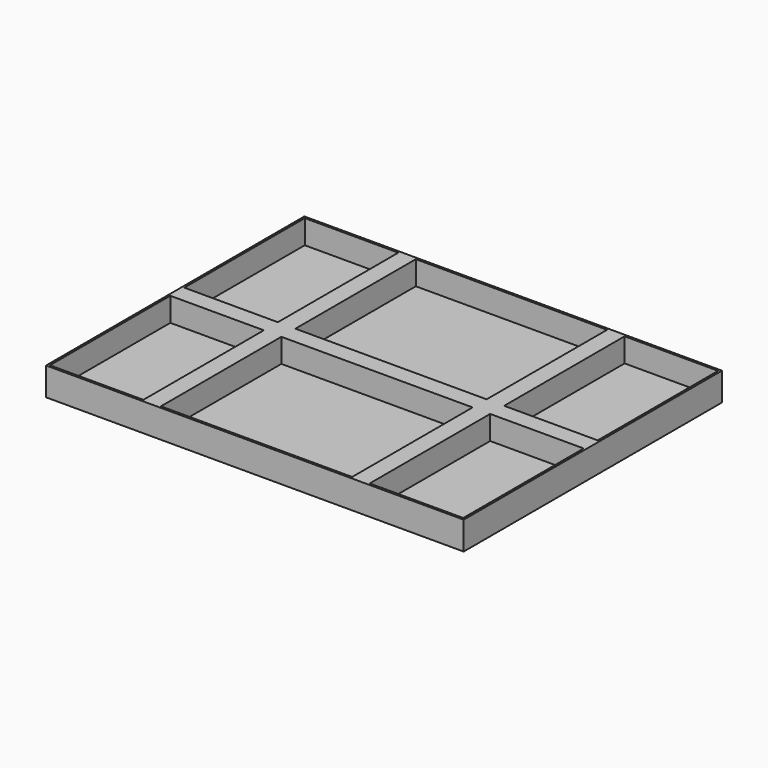
from build123d import *

# Parameters (mm, degrees)
F0_W     = 1190
F0_H     = 920
F1_DEPTH = 80
F2_W     = 1178
F2_H     = 908
F3_DEPTH = 68
F4_W     = 50
F4_H     = 80
F5_DEPTH = 908
F6_W     = 50
F6_H     = 80
F7_DEPTH = 1178


with BuildPart() as f1:
    # F0 (on Top) → F1 (new body)
    with BuildSketch(Plane.XY):
        Rectangle(F0_W, F0_H)
    extrude(amount=F1_DEPTH)

    # F2 (on face) → F3 (cut)
    with BuildSketch(Plane.XY.offset(80)):
        Rectangle(F2_W, F2_H)
    extrude(amount=-F3_DEPTH, mode=Mode.SUBTRACT)

    # F4 (on face) → F5 (join)
    with BuildSketch(Plane(origin=(0, -454, 0), x_dir=(-1, 0, 0), z_dir=(0, 1, 0))):
        with Locations((-297.5, 40)):
            Rectangle(F4_W, F4_H)
        with Locations((297.5, 40)):
            Rectangle(F4_W, F4_H)
    extrude(amount=F5_DEPTH)

    # F6 (on face) → F7 (join)
    with BuildSketch(Plane(origin=(589, 0, 0), x_dir=(0, -1, 0), z_dir=(-1, 0, 0))):
        with Locations((0, 40)):
            Rectangle(F6_W, F6_H)
    extrude(amount=F7_DEPTH)


solid = f1.part
